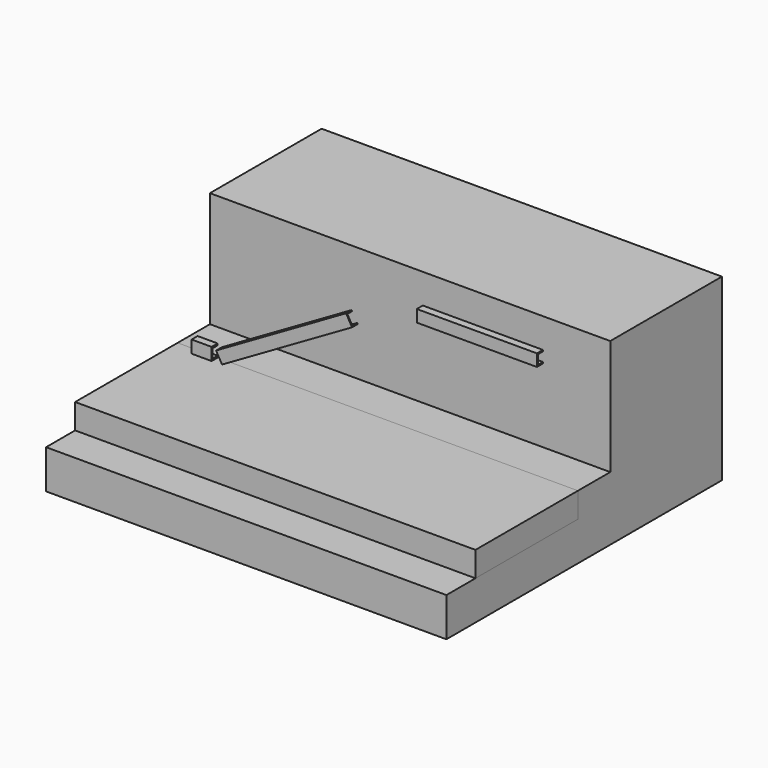
from build123d import *

# Parameters (mm, degrees)
F2_W      = 1280
F2_H      = 250
F3_DEPTH  = 4000
F5_DEPTH  = 4000
F8_DEPTH  = 200
F12_DEPTH = 1200
F16_DEPTH = 1500


with BuildPart() as f3:
    # F2 (on offset) → F3 (new body)
    with BuildSketch(Plane.YZ.offset(2000)):
        with Locations((-640, -125)):
            Rectangle(F2_W, F2_H)
    extrude(amount=-F3_DEPTH)


with BuildPart() as f5:
    # F4 (on face) → F5 (new body)
    with BuildSketch(Plane.YZ.offset(2000)):
        Polygon((403.468102, 0), (0, 0), (0, -250), (-1642.747402, -250), (-1642.747402, -639.098883), (1798.152328, -639.098883), (1798.152328, 1152.612209), (403.468102, 1152.612209), align=None)
    extrude(amount=-F5_DEPTH)


with BuildPart() as f8:
    # F7 (on offset) → F8 (new body)
    with BuildSketch(Plane.YZ.offset(-1800)):
        Polygon((-75, 125), (-75, 0), (0, 0), (0, 17.445398), (-63.321888, 17.445398), (-63.321888, 107.554602), (0, 107.554602), (0, 125), align=None)
    extrude(amount=F8_DEPTH)


with BuildPart() as f12:
    # F11 (on offset) → F12 (new body)
    with BuildSketch(Plane.YZ.offset(450)):
        Polygon((-75, 1005), (0, 1005), (0, 1019.073129), (-62.069599, 1019.073129), (-62.069599, 1110.926871), (0, 1110.926871), (0, 1125), (-75, 1125), align=None)
    extrude(amount=F12_DEPTH)


with BuildPart() as f16:
    # F15 (on face) → F16 (new body)
    with BuildSketch(Plane(origin=(-1125, 0, -649.519053), x_dir=(0, -1, 0), z_dir=(-0.866025, 0, -0.5))):
        Polygon((70, 870), (0, 870), (0, 860), (60, 860), (60, 760), (0, 760), (0, 750), (70, 750), align=None)
    extrude(amount=-F16_DEPTH)


solid = Compound([f3.part, f5.part, f8.part, f12.part, f16.part])
